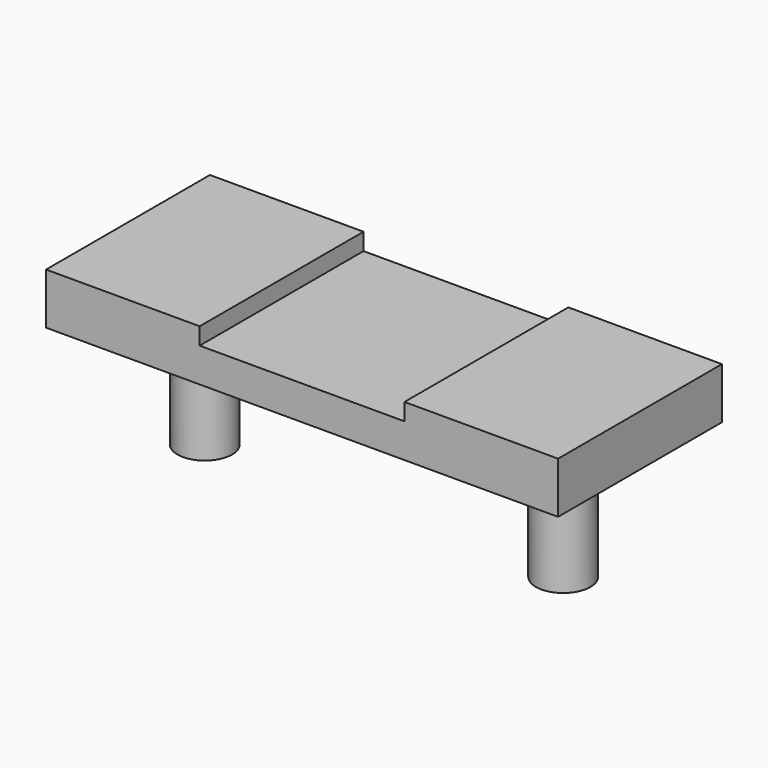
from build123d import *

# Parameters (mm, degrees)
CYLINDER_R        = 1.6
CYLINDER_DEPTH    = 10
BOX001_W          = 12
BOX001_H          = 12
BOX001_DEPTH      = 1
BOX_W             = 30
BOX_H             = 12
BOX_DEPTH         = 3
CYLINDER001_R     = 1.6
CYLINDER001_DEPTH = 10


with BuildPart() as cylinder:
    # Cylinder → Cylinder (new body)
    with BuildSketch(Plane(origin=(25.5, 6, -7), x_dir=(1, 0, 0), z_dir=(0, 0, 1))):
        Circle(CYLINDER_R)
    extrude(amount=CYLINDER_DEPTH)


with BuildPart() as obj1:
    # Box001 → Box001 (new body)
    with BuildSketch(Plane(origin=(9, 0, 2), x_dir=(1, 0, 0), z_dir=(0, 0, 1))):
        with Locations((6, 6)):
            Rectangle(BOX001_W, BOX001_H)
    extrude(amount=BOX001_DEPTH)


with BuildPart() as fusion:
    # Box → Box (new body)
    with BuildSketch(Plane.XY):
        with Locations((15, 6)):
            Rectangle(BOX_W, BOX_H)
    extrude(amount=BOX_DEPTH)

    # Cut: cut obj1
    add(obj1.part, mode=Mode.SUBTRACT)

    # Fusion: union Cylinder
    add(cylinder.part)


with BuildPart() as obj2:
    # Cylinder001 → Cylinder001 (new body)
    with BuildSketch(Plane(origin=(4.5, 6, -7), x_dir=(1, 0, 0), z_dir=(0, 0, 1))):
        Circle(CYLINDER001_R)
    extrude(amount=CYLINDER001_DEPTH)

    # Fusion001: union Fusion
    add(fusion.part)


solid = obj2.part
